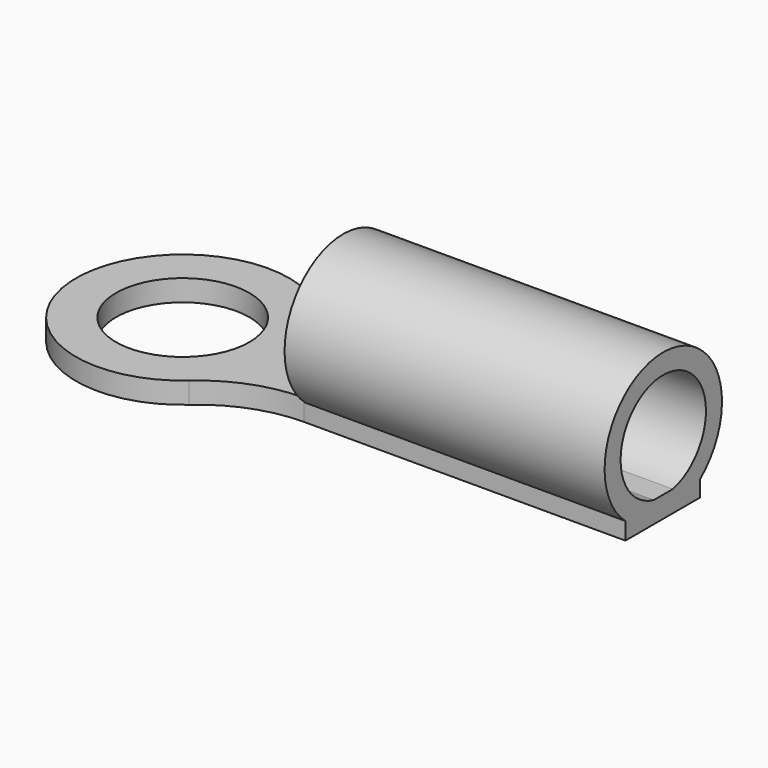
from build123d import *

# Parameters (mm, degrees)
F0_R     = 2.5
F1_DEPTH = 0.8
F3_START = 6
F2_R     = 2.75
F2_R_2   = 2
F3_DEPTH = 12


with BuildPart() as f1:
    # F0 (on Top) → F1 (new body)
    with BuildSketch(Plane.XY):
        with BuildLine():
            ThreePointArc((5.9529404499, 1.75), (4.1851734969, 2.0729282665), (2.6457513111, 3))
            ThreePointArc((2.6457513111, 3), (-4, 0), (2.6457513111, -3))
            ThreePointArc((2.6457513111, -3), (4.1851734969, -2.0729282665), (5.9529404499, -1.75))
            Line((5.9529404499, -1.75), (18, -1.75))
            Line((18, -1.75), (18, 1.75))
            Line((18, 1.75), (5.9529404499, 1.75))
        make_face()
        Circle(F0_R, mode=Mode.SUBTRACT)
    extrude(amount=F1_DEPTH)

    # F2 (on Right) → F3 (join)
    with BuildSketch(Plane.YZ.offset(F3_START)):
        with Locations((0.0244650191, 2.7498911729)):
            Circle(F2_R)
        with Locations((0.0244650191, 2.7498911729)):
            Circle(F2_R_2, mode=Mode.SUBTRACT)
    extrude(amount=F3_DEPTH)


solid = f1.part
